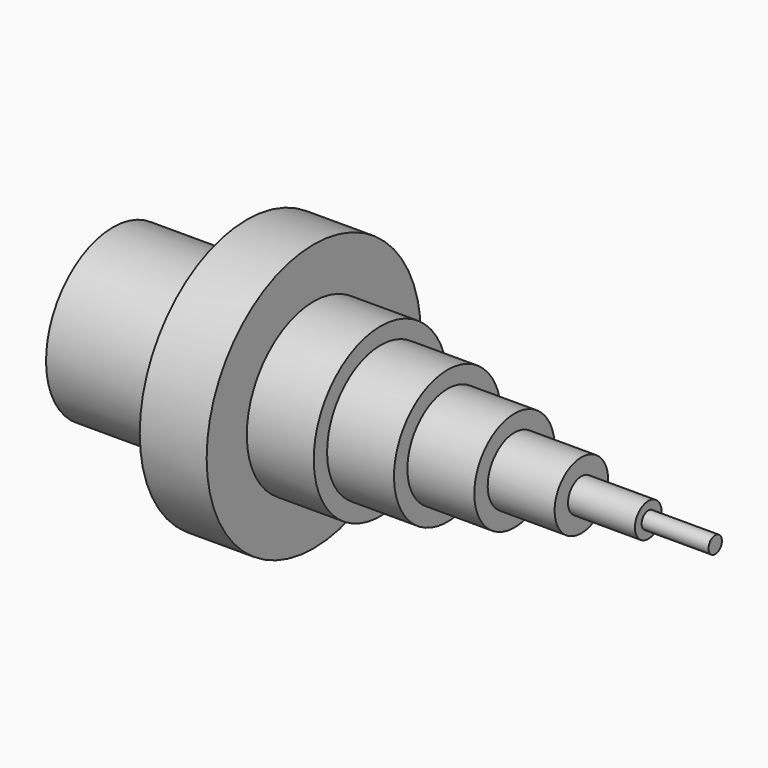
from build123d import *

# Parameters (mm, degrees)
F0_W   = 40
F0_H   = 5
F0_W_2 = 20
F0_H_2 = 2.5


with BuildPart() as f1:
    # F0 (on Front) → F1 (revolve)
    with BuildSketch(Plane.XZ):
        with Locations((20, 47.5)):
            Rectangle(F0_W, F0_H)
        Polygon((40, 45), (40, 25), (60, 25), (60, 50), (60, 65), (40, 65), (40, 50), align=None)
        Polygon((60, 50), (60, 25), (80, 25), (80, 45), (80, 50), align=None)
        Polygon((80, 45), (80, 25), (100, 25), (100, 40), (100, 45), align=None)
        Polygon((100, 40), (100, 25), (120, 25), (120, 35), (120, 40), align=None)
        Polygon((120, 35), (120, 25), (140, 25), (140, 30), (140, 35), align=None)
        Polygon((140, 30), (140, 25), (160, 25), (160, 27.5), (160, 30), align=None)
        with Locations((170, 26.25)):
            Rectangle(F0_W_2, F0_H_2)
    revolve(axis=Axis((90, 0, 25), (1, 0, 0)))


solid = f1.part
